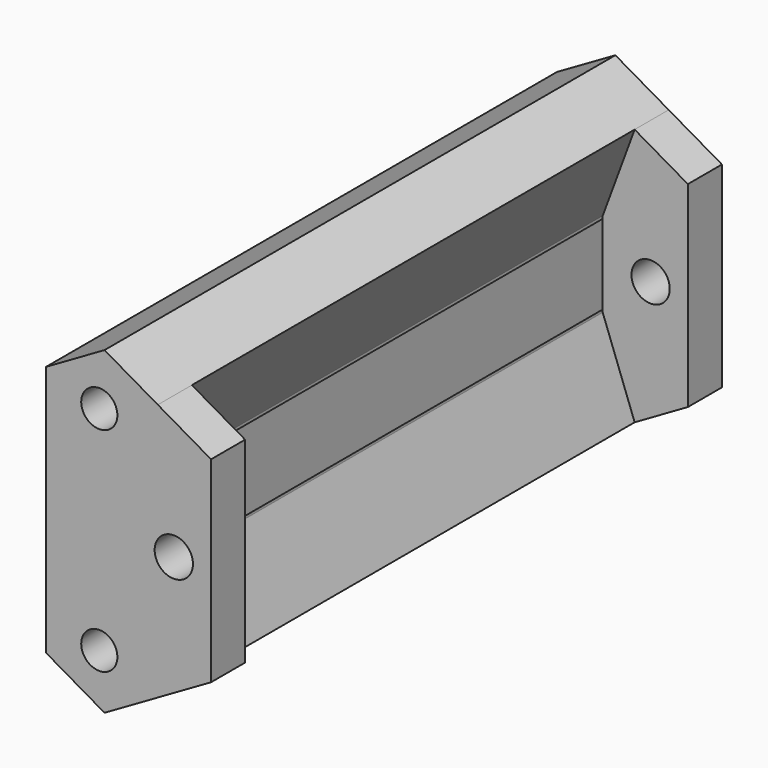
from build123d import *

# Parameters (mm, degrees)
SKETCH161_R  = 1.8
PAD126_DEPTH = 3.35
SKETCH158_R  = 1.8
PAD123_DEPTH = 4
SKETCH159_R  = 1.8
SKETCH159_W  = 2.5
SKETCH159_H  = 13
PAD124_DEPTH = 4
SKETCH156_R  = 1.7
PAD121_DEPTH = 60


with BuildPart() as motorcageringcutout:
    # Sketch161 → Pad126 (new body)
    with BuildSketch(Plane.XZ.offset(-53)):
        with BuildLine():
            Line((-16.85, 24), (-23.5, 12.481862))
            Line((-23.5, 12.481862), (-23.5, 7.75))
            Line((-23.5, 7.75), (-26.2, 7.75))
            Line((-26.2, 7.75), (-28.95, 5))
            Line((-28.95, 5), (-26.2, 2.25))
            Line((-26.2, 2.25), (-23.5, 2.25))
            Line((-23.5, 2.25), (-23.5, -2.25))
            Line((-23.5, -2.25), (-26.2, -2.25))
            Line((-26.2, -2.25), (-28.95, -5))
            Line((-28.95, -5), (-26.2, -7.75))
            Line((-26.2, -7.75), (-23.5, -7.75))
            Line((-23.5, -7.75), (-23.5, -12.473721))
            Line((-23.5, -12.473721), (-18, -22))
            Line((-18, -22), (0, -22))
            Line((0, -18.35), (0, -22))
            ThreePointArc((0, 18.35), (-18.35, 0), (0, -18.35))
            Line((0, 24), (0, 18.35))
            Line((-16.85, 24), (0, 24))
        make_face()
        with Locations((-15, 21)):
            Circle(SKETCH161_R, mode=Mode.SUBTRACT)
        with Locations((-15, -17)):
            Circle(SKETCH161_R, mode=Mode.SUBTRACT)
    extrude(amount=-PAD126_DEPTH)


with BuildPart() as endcap:
    # Sketch158 → Pad123 (new body)
    with BuildSketch(Plane.XZ.offset(-30)):
        Polygon((-29.490381, 15), (-39.5, 9.220944), (-39.5, -9.220944), (-29.490381, -15), (-24, -11.830127), (-24, 11.830127), align=None)
        with Locations((-29, 10)):
            Circle(SKETCH158_R, mode=Mode.SUBTRACT)
        with Locations((-29, -10)):
            Circle(SKETCH158_R, mode=Mode.SUBTRACT)
        with Locations((-36, 0)):
            Circle(SKETCH158_R, mode=Mode.SUBTRACT)
    extrude(amount=-PAD123_DEPTH)


with BuildPart() as pad124:
    # Sketch159 → Pad124 (new body)
    with BuildSketch(Plane.XZ.offset(-90)):
        Polygon((-29.490381, 15), (-39.5, 9.220944), (-39.5, -9.220944), (-29.490381, -15), (-24, -11.830127), (-24, 11.830127), align=None)
        with Locations((-29, 10)):
            Circle(SKETCH159_R, mode=Mode.SUBTRACT)
        with Locations((-29, -10)):
            Circle(SKETCH159_R, mode=Mode.SUBTRACT)
        with Locations((-36, 0)):
            Circle(SKETCH159_R, mode=Mode.SUBTRACT)
        with Locations((-30.25, 0)):
            Rectangle(SKETCH159_W, SKETCH159_H, mode=Mode.SUBTRACT)
    extrude(amount=PAD124_DEPTH)


with BuildPart() as sidewall:
    # Sketch156 → Pad121 (new body)
    with BuildSketch(Plane.XZ.offset(-30)):
        Polygon((-29.490381, 15), (-34.5, 12.107695), (-31.5, 4), (-31.5, 3.75), (-29.5, 6.25), (-29, 6.25), (-29, -6.25), (-29.5, -6.25), (-31.5, -3.75), (-31.5, -4), (-34.5, -12.107695), (-29.490381, -15), (-24, -11.830127), (-24, 11.830127), align=None)
        with Locations((-29, 10)):
            Circle(SKETCH156_R, mode=Mode.SUBTRACT)
        with Locations((-29, -10)):
            Circle(SKETCH156_R, mode=Mode.SUBTRACT)
    extrude(amount=-PAD121_DEPTH)

    # Fusion004020009: union EndCap, Pad124
    add(endcap.part)
    add(pad124.part)

    # Cut007019014: cut MotorCageRingCutout
    add(motorcageringcutout.part, mode=Mode.SUBTRACT)


with BuildPart() as part_mirroring018:
    # Part__Mirroring018: instance of SideWall
    add(sidewall.part.mirror(Plane(origin=(0, 0, 0), x_dir=(0, -1, 0), z_dir=(1, 0, 0))))


solid = part_mirroring018.part
